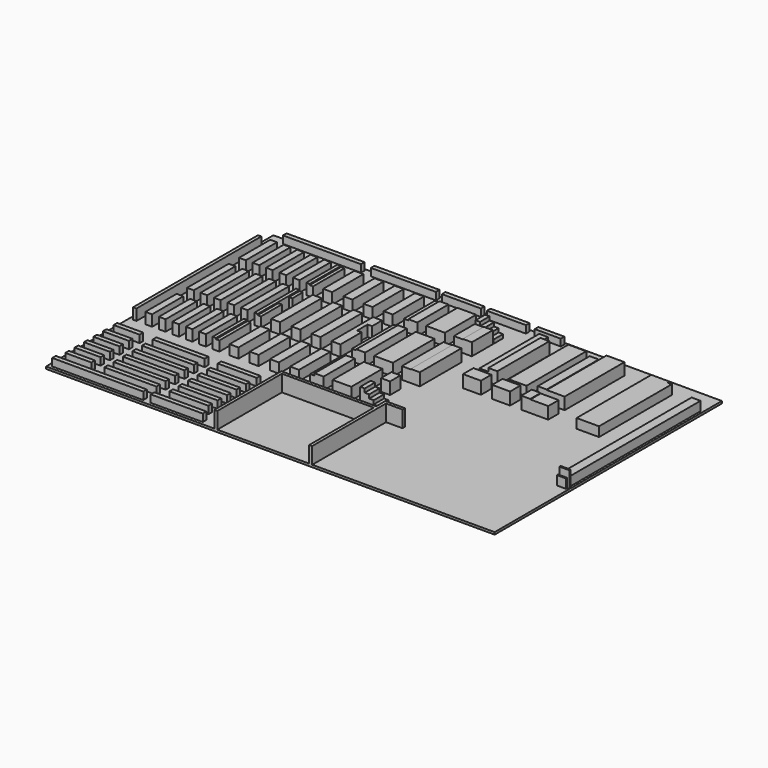
from build123d import *

# Parameters (mm, degrees)
F0_W      = 121.8
F0_H      = 6
F0_W_2    = 34.8
F0_W_3    = 69.6
F0_W_4    = 52.2
F0_W_5    = 9
F0_H_2    = 52.2
F0_W_6    = 12
F0_W_7    = 25
F0_H_3    = 17.4
F0_H_4    = 69.6
F0_W_8    = 104.4
F0_W_9    = 87
F0_W_10   = 24
F0_H_5    = 100
F1_DEPTH  = 3
F0_W_11   = 3
F0_H_6    = 2
F0_W_12   = 10.5
F2_DEPTH  = 25
F0_W_13   = 123
F0_H_7    = 108
F3_DEPTH  = 3
F0_W_14   = 6
F0_H_8    = 16
F4_DEPTH  = 23
F5_DEPTH  = 18
F6_DEPTH  = 13
F7_DEPTH  = 8
F0_W_15   = 4.5
F0_H_9    = 34.8
F8_DEPTH  = 16.2
F0_H_10   = 139.2
F9_DEPTH  = 17.7
F10_DEPTH = 13
F0_H_11   = 35
F11_DEPTH = 19.1
F12_DEPTH = 12.2
F0_H_12   = 87
F13_DEPTH = 19.6
F0_H_13   = 75
F14_DEPTH = 15.2
F15_DEPTH = 19
F0_H_14   = 121.8
F16_DEPTH = 15.7
F17_DEPTH = 19
F18_DEPTH = 13


with BuildPart() as f1:
    # F0 (on Top) → F1 (new body)
    with BuildSketch(Plane.XY):
        Polygon((300, -63), (300, 190), (-300, 190), (-300, -190), (-75, -190), (-75, -78), (52, -78), (52, -62.6457513111), (78, -62.6457513111), (78, -66.6457513111), (56, -66.6457513111), (56, -78), (56, -190), (300, -190), (300, -65), (297, -65), (297, -67), (285, -67), (285, 83), (285, 158), (297, 158), (297, 83), (297, -63), align=None)
        with Locations((-234.1, -183)):
            Rectangle(F0_W, F0_H, mode=Mode.SUBTRACT)
        with Locations((-273.9902827387, -165.5082167387)):
            Rectangle(F0_W_2, F0_H, mode=Mode.SUBTRACT)
        with Locations((-273.9902827387, -150.1208604574)):
            Rectangle(F0_W_2, F0_H, mode=Mode.SUBTRACT)
        with Locations((-204.3902827387, -165.5082167387)):
            Rectangle(F0_W_3, F0_H, mode=Mode.SUBTRACT)
        with Locations((-204.3902827387, -150.1208604574)):
            Rectangle(F0_W_3, F0_H, mode=Mode.SUBTRACT)
        with Locations((-273.9902827387, -134.4953863621)):
            Rectangle(F0_W_2, F0_H, mode=Mode.SUBTRACT)
        with Locations((-273.9902827387, -118.6921461225)):
            Rectangle(F0_W_2, F0_H, mode=Mode.SUBTRACT)
        with Locations((-273.9902827387, -102.8)):
            Rectangle(F0_W_2, F0_H, mode=Mode.SUBTRACT)
        with Locations((-204.3902827387, -134.4953863621)):
            Rectangle(F0_W_3, F0_H, mode=Mode.SUBTRACT)
        with Locations((-204.3902827387, -118.6921461225)):
            Rectangle(F0_W_3, F0_H, mode=Mode.SUBTRACT)
        with Locations((-204.3902827387, -102.8)):
            Rectangle(F0_W_3, F0_H, mode=Mode.SUBTRACT)
        with Locations((-128.4, -183)):
            Rectangle(F0_W_3, F0_H, mode=Mode.SUBTRACT)
        with Locations((-126.0902827387, -165.5082167387)):
            Rectangle(F0_W_4, F0_H, mode=Mode.SUBTRACT)
        with Locations((-126.0902827387, -150.1208604574)):
            Rectangle(F0_W_4, F0_H, mode=Mode.SUBTRACT)
        with Locations((-126.0902827387, -134.4953863621)):
            Rectangle(F0_W_4, F0_H, mode=Mode.SUBTRACT)
        with Locations((-126.0902827387, -118.6921461225)):
            Rectangle(F0_W_4, F0_H, mode=Mode.SUBTRACT)
        with Locations((-126.0902827387, -102.8)):
            Rectangle(F0_W_4, F0_H, mode=Mode.SUBTRACT)
        with Locations((-273.9902827387, -84.8)):
            Rectangle(F0_W_2, F0_H, mode=Mode.SUBTRACT)
        with Locations((-204.3902827387, -84.8)):
            Rectangle(F0_W_3, F0_H, mode=Mode.SUBTRACT)
        with Locations((-274, -24.7)):
            Rectangle(F0_W_5, F0_H_2, mode=Mode.SUBTRACT)
        with Locations((-256, -24.7)):
            Rectangle(F0_W_5, F0_H_2, mode=Mode.SUBTRACT)
        with Locations((-238, -24.7)):
            Rectangle(F0_W_5, F0_H_2, mode=Mode.SUBTRACT)
        with Locations((-220, -24.7)):
            Rectangle(F0_W_5, F0_H_2, mode=Mode.SUBTRACT)
        with Locations((-202, -24.7)):
            Rectangle(F0_W_5, F0_H_2, mode=Mode.SUBTRACT)
        Polygon((-188.5, -50.8), (-188.5, 1.4), (-184, 1.4), (-179.5, 1.4), (-179.5, -50.8), (-184, -50.8), align=None, mode=Mode.SUBTRACT)
        with Locations((-160, -24.7)):
            Rectangle(F0_W_6, F0_H_2, mode=Mode.SUBTRACT)
        with Locations((-126.0902827387, -84.8)):
            Rectangle(F0_W_4, F0_H, mode=Mode.SUBTRACT)
        with Locations((-133, -24.7)):
            Rectangle(F0_W_6, F0_H_2, mode=Mode.SUBTRACT)
        Polygon((-112, -50.8), (-112, 1.4), (-100, 1.4), (-99.9902827387, -50.7999990955), align=None, mode=Mode.SUBTRACT)
        Polygon((-84.9902824788, -50.7999990955), (-84.9999997401, 1.4), (-73, 1.4), (-73, -50.8), align=None, mode=Mode.SUBTRACT)
        Polygon((-58, 1.2), (-52, 1.2), (-40, 1.2), (-40, -51), (-52, -51), (-58, -51), align=None, mode=Mode.SUBTRACT)
        with Locations((-15.5, -24.9)):
            Rectangle(F0_W_7, F0_H_2, mode=Mode.SUBTRACT)
        Polygon((15, -51), (9, -51), (9, -33.6), (15, -33.6), (21, -33.6), (27, -33.6), (33, -33.6), (33, -51), (27, -51), (21, -51), align=None, mode=Mode.SUBTRACT)
        with Locations((15, -7.5)):
            Rectangle(F0_W_6, F0_H_3, mode=Mode.SUBTRACT)
        Polygon((-295, 18.8), (-295, 158), (-290.5, 158), (-290.5, 18.8), (-290.5, -50.8), (-295, -50.8), align=None, mode=Mode.SUBTRACT)
        with Locations((-274, 53.6)):
            Rectangle(F0_W_5, F0_H_4, mode=Mode.SUBTRACT)
        with Locations((-256, 53.6)):
            Rectangle(F0_W_5, F0_H_4, mode=Mode.SUBTRACT)
        with Locations((-238, 53.6)):
            Rectangle(F0_W_5, F0_H_4, mode=Mode.SUBTRACT)
        with Locations((-220, 53.6)):
            Rectangle(F0_W_5, F0_H_4, mode=Mode.SUBTRACT)
        with Locations((-202, 53.6)):
            Rectangle(F0_W_5, F0_H_4, mode=Mode.SUBTRACT)
        Polygon((-188.5, 18.8), (-188.5, 88.4), (-184, 88.4), (-179.5, 88.4), (-179.5, 71), (-184, 71), (-184, 53.6), (-179.5, 53.6), (-179.5, 18.8), (-184, 18.8), align=None, mode=Mode.SUBTRACT)
        with Locations((-160, 53.6)):
            Rectangle(F0_W_6, F0_H_4, mode=Mode.SUBTRACT)
        with Locations((-133, 53.6)):
            Rectangle(F0_W_6, F0_H_4, mode=Mode.SUBTRACT)
        with Locations((-106, 53.6)):
            Rectangle(F0_W_6, F0_H_4, mode=Mode.SUBTRACT)
        Polygon((-85.3609246612, 18.8), (-85.3609246612, 88.4), (-73.3609246612, 88.4), (-73.3609246612, 71.6737563252), (-79.3609246612, 71.6737563252), (-79.3609246612, 54.2737563252), (-73.3609246612, 54.2737563252), (-73.3609246612, 18.8), align=None, mode=Mode.SUBTRACT)
        Polygon((-58, 88.2), (-52, 88.2), (-40, 88.2), (-40, 18.6), (-52, 18.6), (-58, 18.6), align=None, mode=Mode.SUBTRACT)
        with Locations((-15.5, 53.4)):
            Rectangle(F0_W_7, F0_H_4, mode=Mode.SUBTRACT)
        with Locations((-274, 131.9)):
            Rectangle(F0_W_5, F0_H_2, mode=Mode.SUBTRACT)
        with Locations((-256, 131.9)):
            Rectangle(F0_W_5, F0_H_2, mode=Mode.SUBTRACT)
        with Locations((-238, 131.9)):
            Rectangle(F0_W_5, F0_H_2, mode=Mode.SUBTRACT)
        with Locations((-220, 131.9)):
            Rectangle(F0_W_5, F0_H_2, mode=Mode.SUBTRACT)
        with Locations((-202, 131.9)):
            Rectangle(F0_W_5, F0_H_2, mode=Mode.SUBTRACT)
        Polygon((-188.5, 105.8), (-188.5, 158), (-184, 158), (-179.5, 158), (-179.5, 105.8), (-184, 105.8), align=None, mode=Mode.SUBTRACT)
        with Locations((-160, 131.9)):
            Rectangle(F0_W_6, F0_H_2, mode=Mode.SUBTRACT)
        with Locations((-227.8, 184)):
            Rectangle(F0_W_8, F0_H, mode=Mode.SUBTRACT)
        with Locations((-133, 131.9)):
            Rectangle(F0_W_6, F0_H_2, mode=Mode.SUBTRACT)
        with Locations((-106, 131.9)):
            Rectangle(F0_W_6, F0_H_2, mode=Mode.SUBTRACT)
        with Locations((-79, 131.9)):
            Rectangle(F0_W_6, F0_H_2, mode=Mode.SUBTRACT)
        Polygon((-58, 157.8), (-52, 157.8), (-40, 157.8), (-40, 105.6), (-52, 105.6), (-58, 105.6), align=None, mode=Mode.SUBTRACT)
        with Locations((-15.5, 131.7)):
            Rectangle(F0_W_7, F0_H_2, mode=Mode.SUBTRACT)
        with Locations((-118.9210427403, 184)):
            Rectangle(F0_W_9, F0_H, mode=Mode.SUBTRACT)
        with Locations((-41.3210427403, 184)):
            Rectangle(F0_W_4, F0_H, mode=Mode.SUBTRACT)
        Polygon((21, 18.6), (9, 18.6), (9, 88.2), (21, 88.2), (33, 88.2), (33, 18.6), align=None, mode=Mode.SUBTRACT)
        with Locations((82.7962681174, 52.3)):
            Rectangle(F0_W_10, F0_H_3, mode=Mode.SUBTRACT)
        with Locations((121.7962681174, 52.3)):
            Rectangle(F0_W_10, F0_H_3, mode=Mode.SUBTRACT)
        Polygon((148.7962681174, 43.6), (148.7962681174, 61), (160.7962681174, 61), (184.7962681174, 61), (184.7962681174, 43.6), (160.7962681174, 43.6), align=None, mode=Mode.SUBTRACT)
        Polygon((9, 105.6), (9, 140.6), (21, 140.6), (33, 140.6), (33, 105.6), (21, 105.6), align=None, mode=Mode.SUBTRACT)
        Polygon((70.7962681174, 71), (70.7962681174, 171), (82.7962681174, 171), (82.7962681174, 158), (94.7962681174, 158), (94.7962681174, 71), (82.7962681174, 71), align=None, mode=Mode.SUBTRACT)
        with Locations((121.7962681174, 121)):
            Rectangle(F0_W_10, F0_H_5, mode=Mode.SUBTRACT)
        Polygon((15, 157.8), (21, 157.8), (27, 157.8), (33, 157.8), (33, 141.8), (27, 141.8), (21, 141.8), (15, 141.8), (9, 141.8), (9, 157.8), align=None, mode=Mode.SUBTRACT)
        with Locations((18.8789572597, 184)):
            Rectangle(F0_W_4, F0_H, mode=Mode.SUBTRACT)
        with Locations((74.1962681174, 184)):
            Rectangle(F0_W_2, F0_H, mode=Mode.SUBTRACT)
        Polygon((148.7962681174, 71), (148.7962681174, 158), (160.7962681174, 158), (160.7962681174, 171), (184.7962681174, 171), (184.7962681174, 71), (160.7962681174, 71), align=None, mode=Mode.SUBTRACT)
        Polygon((220.7962681174, 46), (220.7962681174, 171), (244.7962681174, 171), (244.7962681174, 167.8), (250.7962681174, 167.8), (250.7962681174, 46), (244.7962681174, 46), align=None, mode=Mode.SUBTRACT)
    extrude(amount=F1_DEPTH)

    # F0 (on Top) → F2 (join)
    with BuildSketch(Plane.XY):
        Polygon((-75, -78), (-75, -190), (-71, -190), (-71, -82), (52, -82), (52, -190), (56, -190), (56, -78), (56, -66.6457513111), (78, -66.6457513111), (78, -62.6457513111), (52, -62.6457513111), (52, -78), align=None)
        with Locations((298.5, -64)):
            Rectangle(F0_W_11, F0_H_6)
        with Locations((291.75, -64)):
            Rectangle(F0_W_12, F0_H_6)
    extrude(amount=F2_DEPTH)

    # F0 (on Top) → F3 (join)
    with BuildSketch(Plane.XY):
        with Locations((-9.5, -136)):
            Rectangle(F0_W_13, F0_H_7)
    extrude(amount=F3_DEPTH)

    # F0 (on Top) → F4 (join)
    with BuildSketch(Plane.XY):
        with Locations((12, 149.8)):
            Rectangle(F0_W_14, F0_H_8)
        with Locations((12, -42.3)):
            Rectangle(F0_W_14, F0_H_3)
    extrude(amount=F4_DEPTH)

    # F0 (on Top) → F5 (join)
    with BuildSketch(Plane.XY):
        with Locations((18, 149.8)):
            Rectangle(F0_W_14, F0_H_8)
        with Locations((18, -42.3)):
            Rectangle(F0_W_14, F0_H_3)
    extrude(amount=F5_DEPTH)

    # F0 (on Top) → F6 (join)
    with BuildSketch(Plane.XY):
        with Locations((24, 149.8)):
            Rectangle(F0_W_14, F0_H_8)
        with Locations((24, -42.3)):
            Rectangle(F0_W_14, F0_H_3)
    extrude(amount=F6_DEPTH)

    # F0 (on Top) → F7 (join)
    with BuildSketch(Plane.XY):
        with Locations((30, 149.8)):
            Rectangle(F0_W_14, F0_H_8)
        with Locations((30, -42.3)):
            Rectangle(F0_W_14, F0_H_3)
    extrude(amount=F7_DEPTH)

    # F0 (on Top) → F8 (join)
    with BuildSketch(Plane.XY):
        with Locations((-181.75, -24.7)):
            Rectangle(F0_W_15, F0_H_2)
        with Locations((-160, -24.7)):
            Rectangle(F0_W_6, F0_H_2)
        with Locations((-133, -24.7)):
            Rectangle(F0_W_6, F0_H_2)
        Polygon((-100, 1.4), (-112, 1.4), (-112, -50.8), (-99.9902827387, -50.7999990955), align=None)
        Polygon((-73, 1.4), (-84.9999997401, 1.4), (-84.9902824788, -50.7999990955), (-73, -50.8), align=None)
        with Locations((-55, -24.9)):
            Rectangle(F0_W_14, F0_H_2)
        with Locations((-181.75, 79.7)):
            Rectangle(F0_W_15, F0_H_3)
        with Locations((-181.75, 36.2)):
            Rectangle(F0_W_15, F0_H_9)
        with Locations((-181.75, 131.9)):
            Rectangle(F0_W_15, F0_H_2)
    extrude(amount=F8_DEPTH)

    # F0 (on Top) → F9 (join)
    with BuildSketch(Plane.XY):
        with Locations((-292.75, -16)):
            Rectangle(F0_W_15, F0_H_4)
        with Locations((-274, -24.7)):
            Rectangle(F0_W_5, F0_H_2)
        with Locations((-256, -24.7)):
            Rectangle(F0_W_5, F0_H_2)
        with Locations((-238, -24.7)):
            Rectangle(F0_W_5, F0_H_2)
        with Locations((-220, -24.7)):
            Rectangle(F0_W_5, F0_H_2)
        with Locations((-202, -24.7)):
            Rectangle(F0_W_5, F0_H_2)
        with Locations((-186.25, -24.7)):
            Rectangle(F0_W_15, F0_H_2)
        with Locations((-292.75, 88.4)):
            Rectangle(F0_W_15, F0_H_10)
        with Locations((-274, 53.6)):
            Rectangle(F0_W_5, F0_H_4)
        with Locations((-256, 53.6)):
            Rectangle(F0_W_5, F0_H_4)
        with Locations((-238, 53.6)):
            Rectangle(F0_W_5, F0_H_4)
        with Locations((-220, 53.6)):
            Rectangle(F0_W_5, F0_H_4)
        with Locations((-202, 53.6)):
            Rectangle(F0_W_5, F0_H_4)
        Polygon((-184, 88.4), (-188.5, 88.4), (-188.5, 18.8), (-184, 18.8), (-184, 53.6), (-184, 71), align=None)
        with Locations((-186.25, 131.9)):
            Rectangle(F0_W_15, F0_H_2)
        with Locations((-202, 131.9)):
            Rectangle(F0_W_5, F0_H_2)
        with Locations((-220, 131.9)):
            Rectangle(F0_W_5, F0_H_2)
        with Locations((-238, 131.9)):
            Rectangle(F0_W_5, F0_H_2)
        with Locations((-256, 131.9)):
            Rectangle(F0_W_5, F0_H_2)
        with Locations((-274, 131.9)):
            Rectangle(F0_W_5, F0_H_2)
        with Locations((-160, 131.9)):
            Rectangle(F0_W_6, F0_H_2)
        with Locations((-133, 131.9)):
            Rectangle(F0_W_6, F0_H_2)
        with Locations((-106, 131.9)):
            Rectangle(F0_W_6, F0_H_2)
        with Locations((-79, 131.9)):
            Rectangle(F0_W_6, F0_H_2)
        Polygon((-73.3609246612, 88.4), (-85.3609246612, 88.4), (-85.3609246612, 18.8), (-73.3609246612, 18.8), (-73.3609246612, 54.2737563252), (-79.3609246612, 54.2737563252), (-79.3609246612, 71.6737563252), (-73.3609246612, 71.6737563252), align=None)
        with Locations((-106, 53.6)):
            Rectangle(F0_W_6, F0_H_4)
        with Locations((-133, 53.6)):
            Rectangle(F0_W_6, F0_H_4)
        with Locations((-160, 53.6)):
            Rectangle(F0_W_6, F0_H_4)
        with Locations((-55, 131.7)):
            Rectangle(F0_W_14, F0_H_2)
        with Locations((-55, 53.4)):
            Rectangle(F0_W_14, F0_H_4)
    extrude(amount=F9_DEPTH)

    # F0 (on Top) → F10 (join)
    with BuildSketch(Plane.XY):
        with Locations((-227.8, 184)):
            Rectangle(F0_W_8, F0_H)
        with Locations((-118.9210427403, 184)):
            Rectangle(F0_W_9, F0_H)
        with Locations((-41.3210427403, 184)):
            Rectangle(F0_W_4, F0_H)
        with Locations((18.8789572597, 184)):
            Rectangle(F0_W_4, F0_H)
    extrude(amount=F10_DEPTH)

    # F0 (on Top) → F11 (join)
    with BuildSketch(Plane.XY):
        with Locations((-46, 131.7)):
            Rectangle(F0_W_6, F0_H_2)
        with Locations((-15.5, 131.7)):
            Rectangle(F0_W_7, F0_H_2)
        with Locations((-15.5, 53.4)):
            Rectangle(F0_W_7, F0_H_4)
        with Locations((-46, 53.4)):
            Rectangle(F0_W_6, F0_H_4)
        with Locations((-15.5, -24.9)):
            Rectangle(F0_W_7, F0_H_2)
        with Locations((-46, -24.9)):
            Rectangle(F0_W_6, F0_H_2)
        with Locations((15, -7.5)):
            Rectangle(F0_W_6, F0_H_3)
        with Locations((15, 53.4)):
            Rectangle(F0_W_6, F0_H_4)
        with Locations((15, 123.1)):
            Rectangle(F0_W_6, F0_H_11)
    extrude(amount=F11_DEPTH)

    # F0 (on Top) → F12 (join)
    with BuildSketch(Plane.XY):
        with Locations((74.1962681174, 184)):
            Rectangle(F0_W_2, F0_H)
    extrude(amount=F12_DEPTH)

    # F0 (on Top) → F13 (join)
    with BuildSketch(Plane.XY):
        with Locations((27, 123.1)):
            Rectangle(F0_W_6, F0_H_11)
        with Locations((27, 53.4)):
            Rectangle(F0_W_6, F0_H_4)
        with Locations((88.7962681174, 114.5)):
            Rectangle(F0_W_6, F0_H_12)
        with Locations((154.7962681174, 114.5)):
            Rectangle(F0_W_6, F0_H_12)
        with Locations((82.7962681174, 52.3)):
            Rectangle(F0_W_10, F0_H_3)
        with Locations((121.7962681174, 52.3)):
            Rectangle(F0_W_10, F0_H_3)
        with Locations((154.7962681174, 52.3)):
            Rectangle(F0_W_6, F0_H_3)
    extrude(amount=F13_DEPTH)

    # F0 (on Top) → F14 (join)
    with BuildSketch(Plane.XY):
        Polygon((82.7962681174, 171), (70.7962681174, 171), (70.7962681174, 71), (82.7962681174, 71), (82.7962681174, 158), align=None)
        with Locations((121.7962681174, 121)):
            Rectangle(F0_W_10, F0_H_5)
        with Locations((291, 120.5)):
            Rectangle(F0_W_6, F0_H_13)
        Polygon((286.5, -63), (297, -63), (297, 83), (285, 83), (285, -67), (297, -67), (297, -65), (286.5, -65), align=None)
    extrude(amount=F14_DEPTH)

    # F0 (on Top) → F15 (join)
    with BuildSketch(Plane.XY):
        Polygon((160.7962681174, 171), (160.7962681174, 158), (160.7962681174, 71), (184.7962681174, 71), (184.7962681174, 171), align=None)
    extrude(amount=F15_DEPTH)

    # F0 (on Top) → F16 (join)
    with BuildSketch(Plane.XY):
        with Locations((247.7962681174, 106.9)):
            Rectangle(F0_W_14, F0_H_14)
        Polygon((244.7962681174, 171), (220.7962681174, 171), (220.7962681174, 46), (244.7962681174, 46), (244.7962681174, 167.8), align=None)
    extrude(amount=F16_DEPTH)

    # F0 (on Top) → F17 (join)
    with BuildSketch(Plane.XY):
        with Locations((172.7962681174, 52.3)):
            Rectangle(F0_W_10, F0_H_3)
    extrude(amount=F17_DEPTH)

    # F0 (on Top) → F18 (join)
    with BuildSketch(Plane.XY):
        with Locations((-273.9902827387, -84.8)):
            Rectangle(F0_W_2, F0_H)
        with Locations((-204.3902827387, -84.8)):
            Rectangle(F0_W_3, F0_H)
        with Locations((-126.0902827387, -84.8)):
            Rectangle(F0_W_4, F0_H)
        with Locations((-126.0902827387, -102.8)):
            Rectangle(F0_W_4, F0_H)
        with Locations((-204.3902827387, -102.8)):
            Rectangle(F0_W_3, F0_H)
        with Locations((-273.9902827387, -102.8)):
            Rectangle(F0_W_2, F0_H)
        with Locations((-273.9902827387, -118.6921461225)):
            Rectangle(F0_W_2, F0_H)
        with Locations((-204.3902827387, -118.6921461225)):
            Rectangle(F0_W_3, F0_H)
        with Locations((-126.0902827387, -118.6921461225)):
            Rectangle(F0_W_4, F0_H)
        with Locations((-126.0902827387, -134.4953863621)):
            Rectangle(F0_W_4, F0_H)
        with Locations((-273.9902827387, -134.4953863621)):
            Rectangle(F0_W_2, F0_H)
        with Locations((-204.3902827387, -134.4953863621)):
            Rectangle(F0_W_3, F0_H)
        with Locations((-273.9902827387, -150.1208604574)):
            Rectangle(F0_W_2, F0_H)
        with Locations((-204.3902827387, -150.1208604574)):
            Rectangle(F0_W_3, F0_H)
        with Locations((-126.0902827387, -150.1208604574)):
            Rectangle(F0_W_4, F0_H)
        with Locations((-126.0902827387, -165.5082167387)):
            Rectangle(F0_W_4, F0_H)
        with Locations((-204.3902827387, -165.5082167387)):
            Rectangle(F0_W_3, F0_H)
        with Locations((-273.9902827387, -165.5082167387)):
            Rectangle(F0_W_2, F0_H)
        with Locations((-234.1, -183)):
            Rectangle(F0_W, F0_H)
        with Locations((-128.4, -183)):
            Rectangle(F0_W_3, F0_H)
    extrude(amount=F18_DEPTH)


solid = f1.part
